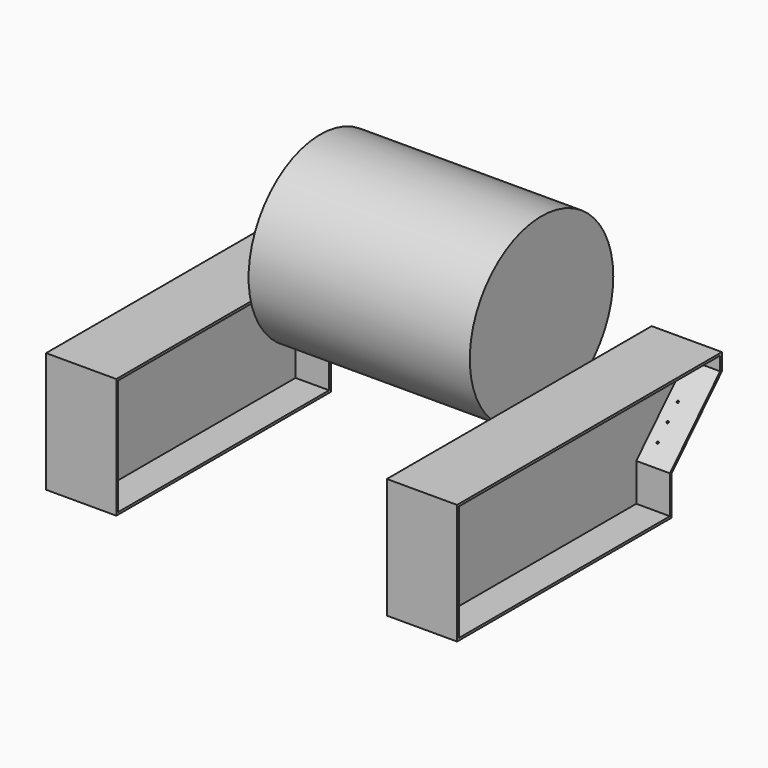
from build123d import *

# Parameters (mm, degrees)
F1_DEPTH  = 298.45
F2_DEPTH  = 12.7
F5_DEPTH  = 152.4
F7_D      = 17.4625
F7_DEPTH  = 25.4
F7_TIP    = 5.2462642799
F10_R     = 762
F11_DEPTH = 939.8


with BuildPart() as f1:
    # F0 (on Right) → F1 (new body, symmetric)
    with BuildSketch(Plane.YZ):
        Polygon((-1406.525, 511.175), (-1406.525, -511.175), (873.125, -511.175), (873.125, -178.9909222886), (1406.525, 367.1090777114), (1406.525, 511.175), align=None)
        Polygon((854.075, -492.125), (-1387.475, -492.125), (-1387.475, 492.125), (1387.475, 492.125), (1387.475, 374.8688846221), (854.075, -171.2311153779), align=None, mode=Mode.SUBTRACT)
    extrude(amount=F1_DEPTH, both=True)

    # F0 (on Right) → F2 (join, symmetric)
    with BuildSketch(Plane.YZ):
        Polygon((-1387.475, 492.125), (-1387.475, -492.125), (854.075, -492.125), (854.075, -171.2311153779), (1387.475, 374.8688846221), (1387.475, 492.125), align=None)
    extrude(amount=F2_DEPTH, both=True)

    # F7
    with Locations(Plane(origin=(0, 536.3038280247, -523.8316459776), x_dir=(-1, 0, 0), z_dir=(0, 0.7153761792, -0.6987395239))):
        with Locations((-101.6, 640.3505450322), (-101.6, 792.7505450322), (-101.6, 945.1505450322), (101.6, 945.1505450322), (101.6, 792.7505450322), (101.6, 640.3505450322)):
            Hole(F7_D / 2, depth=F7_DEPTH)
            with Locations((0, 0, -(F7_DEPTH + F7_TIP / 2))):  # 118° drill point
                Cone(0, F7_D / 2, F7_TIP, mode=Mode.SUBTRACT)


with BuildPart() as f5:
    # F4 (on face) → F5 (new body)
    with BuildSketch(Plane.YZ.offset(298.45)):
        Polygon((1547.2405520028, 511.175), (1406.525, 511.175), (1406.525, 367.1090777114), align=None)
    extrude(amount=F5_DEPTH)


with BuildPart() as f9_1:
    # F9: instance of F1
    add(f1.part.mirror(Plane(origin=(-1447.8, -93.0328602269, 39.6868545201), x_dir=(0, 1, 0), z_dir=(1, 0, 0))))


with BuildPart() as f11:
    # F10 (on offset) → F11 (new body, symmetric)
    with BuildSketch(Plane.YZ.offset(-1447.8)):
        with Locations((498.475, 873.125)):
            Circle(F10_R)
    extrude(amount=F11_DEPTH, both=True)


solid = Compound([f1.part, f9_1.part, f11.part])
